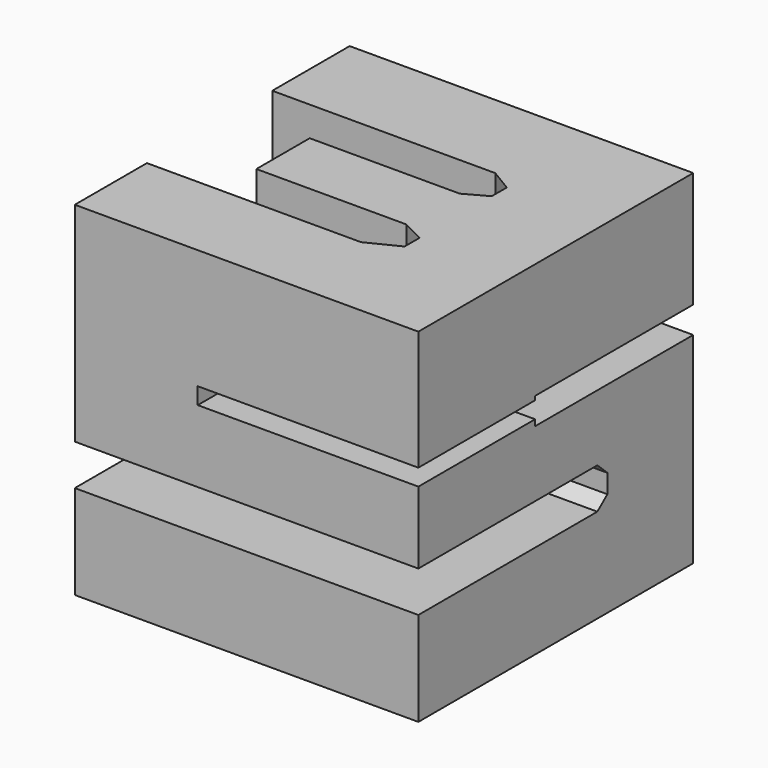
from build123d import *

# Parameters (mm, degrees)
F0_W     = 25
F0_H     = 25
F1_DEPTH = 25
F5_DEPTH = 32.1
F6_DEPTH = 40.6
F2_W     = 8.489821
F2_H     = 2.587373
F7_DEPTH = 45.1


with BuildPart() as f1:
    # F0 (on Top) → F1 (new body)
    with BuildSketch(Plane.XY):
        Rectangle(F0_W, F0_H)
    extrude(amount=F1_DEPTH)

    # F4 (on face) → F5 (intersect)
    with BuildSketch(Plane.XY.offset(25)):
        Polygon((12.5, 12.5), (-12.5, 12.5), (-12.5, 5.462941), (3.725921, 5.462941), (5.34303, 4.492676), (5.34303, 3.118134), (3.725921, 2.228724), (-7.189562, 2.228724), (-7.189562, -2.622602), (3.725921, -2.622602), (5.34303, -3.431156), (5.34303, -4.805698), (3.079078, -5.937674), (-12.5, -5.937674), (-12.5, -12.5), (12.5, -12.5), align=None)
    extrude(amount=-F5_DEPTH, mode=Mode.INTERSECT)

    # F3 (on face) → F6 (intersect)
    with BuildSketch(Plane.YZ.offset(12.5)):
        Polygon((12.5, 16.569659), (12.5, 25), (-12.5, 25), (-12.5, 9.823196), (3.778635, 9.823196), (4.693409, 8.965595), (4.693409, 7.593432), (3.778635, 6.850178), (-12.5, 6.850178), (-12.5, 0), (12.5, 0), (12.5, 14.625764), (-1.881534, 14.625764), (-1.881534, 16.569659), align=None)
    extrude(amount=-F6_DEPTH, mode=Mode.INTERSECT)

    # F2 (on face) → F7 (intersect)
    with BuildSketch(Plane.XZ.offset(12.5)):
        Polygon((12.5, 16.284853), (12.5, 25), (-12.5, 25), (-12.5, 0), (12.5, 0), (12.5, 15.072023), (-3.553276, 15.072023), (-3.553276, 16.284853), align=None)
        with Locations((0.691634, 8.522733)):
            Rectangle(F2_W, F2_H, mode=Mode.SUBTRACT)
    extrude(amount=-F7_DEPTH, mode=Mode.INTERSECT)


solid = f1.part
